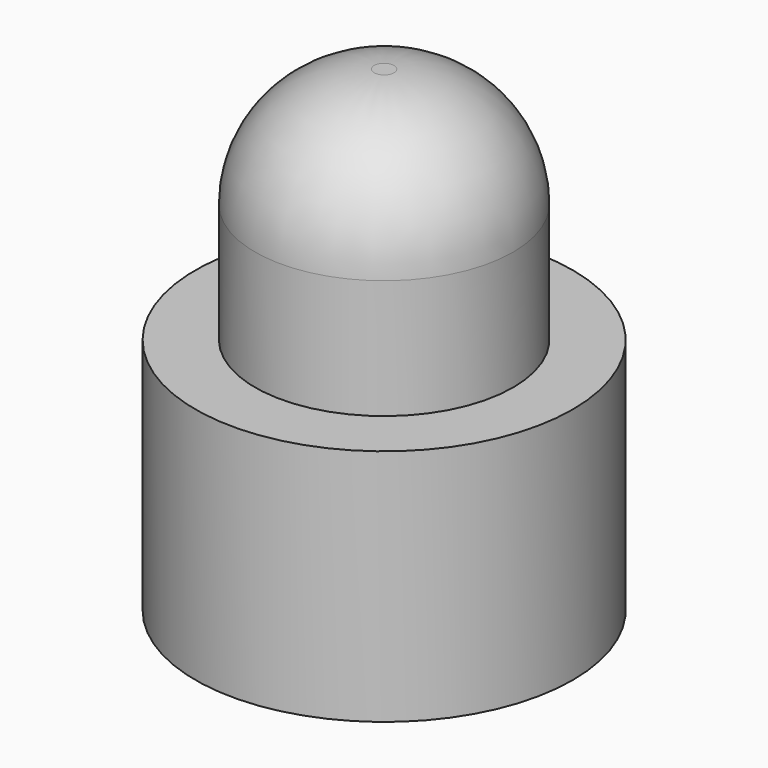
from build123d import *

# Parameters (mm, degrees)
F0_R     = 3.25
F1_DEPTH = 12
F0_R_2   = 4.75
F2_DEPTH = 6
F3_R     = 3


with BuildPart() as f1:
    # F0 (on Top) → F1 (new body)
    with BuildSketch(Plane.XY):
        Circle(F0_R)
    extrude(amount=F1_DEPTH)

    # F0 (on Top) → F2 (join)
    with BuildSketch(Plane.XY):
        Circle(F0_R_2)
        Circle(F0_R, mode=Mode.SUBTRACT)
    extrude(amount=F2_DEPTH)

    # F3
    f3_edges = [f1.edges().sort_by_distance(p)[0] for p in [
        (-3.25, 0, 12),
    ]]
    fillet(f3_edges, radius=F3_R)


solid = f1.part
